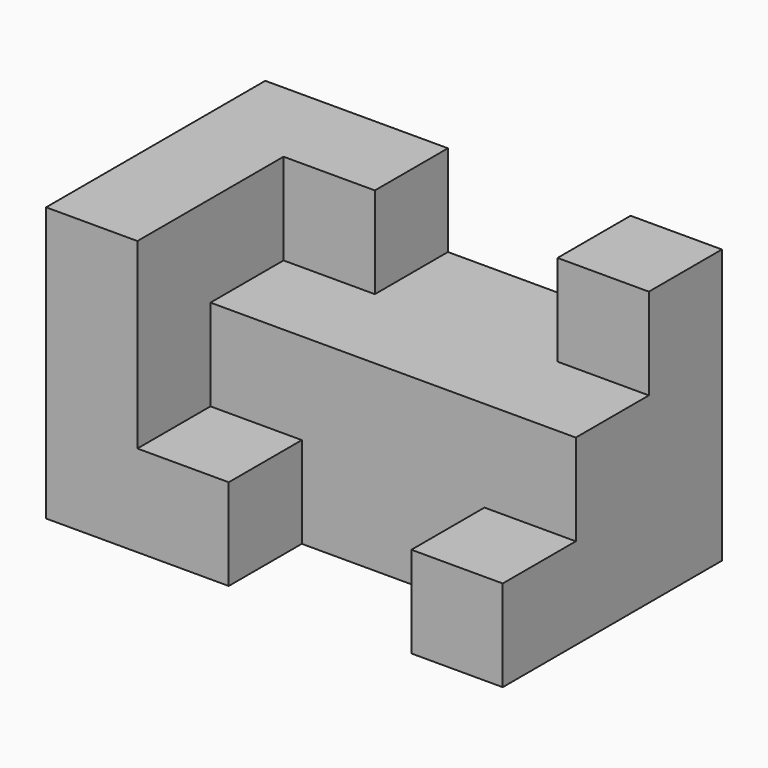
from build123d import *

# Parameters (mm, degrees)
F0_W     = 127
F0_H     = 76.2
F1_DEPTH = 76.2
F2_W     = 25.4
F2_H     = 25.4
F3_DEPTH = 50.8
F2_W_2   = 50.8
F4_DEPTH = 76.201
F5_DEPTH = 25.4


with BuildPart() as f1:
    # F0 (on Front) → F1 (new body)
    with BuildSketch(Plane.XZ):
        with Locations((10.449783, -23.658928)):
            Rectangle(F0_W, F0_H)
    extrude(amount=F1_DEPTH)

    # F2 (on face) → F3 (cut)
    with BuildSketch(Plane.XZ.offset(76.2)):
        with Locations((-14.950217, 1.741072)):
            Rectangle(F2_W, F2_H)
        with Locations((61.249783, 1.741072)):
            Rectangle(F2_W, F2_H)
    extrude(amount=-F3_DEPTH, mode=Mode.SUBTRACT)

    # F2 (on face) → F4 (cut, through all)
    with BuildSketch(Plane.XZ.offset(76.2)):
        with Locations((23.149783, 1.741072)):
            Rectangle(F2_W_2, F2_H)
    extrude(amount=-F4_DEPTH, mode=Mode.SUBTRACT)

    # F2 (on face) → F5 (cut)
    with BuildSketch(Plane.XZ.offset(76.2)):
        Polygon((-2.250217, -10.958928), (-27.650217, -10.958928), (-27.650217, -36.358928), (-2.250217, -36.358928), (48.549783, -36.358928), (73.949783, -36.358928), (73.949783, -10.958928), (48.549783, -10.958928), align=None)
        with Locations((23.149783, -49.058928)):
            Rectangle(F2_W_2, F2_H)
    extrude(amount=-F5_DEPTH, mode=Mode.SUBTRACT)


solid = f1.part
